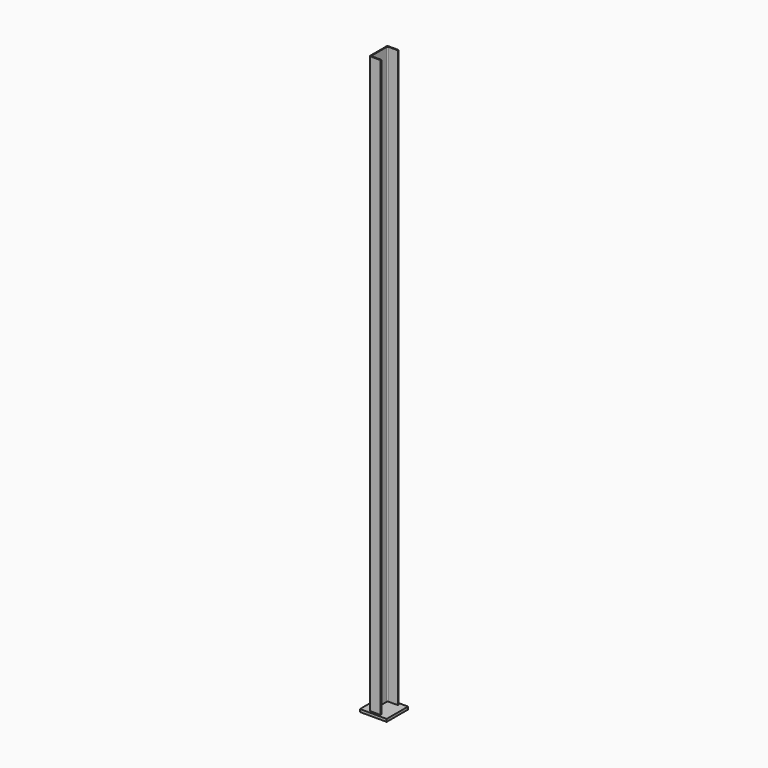
from build123d import *

# Parameters (mm, degrees)
F1_DEPTH = 2600
F2_DEPTH = 12
F3_DEPTH = 12


with BuildPart() as f1:
    # F0 (on Top) → F1 (new body)
    with BuildSketch(Plane.XY):
        with BuildLine():
            Line((-5168.702047, 0.422041), (-5168.702047, -44.577959))
            Line((-5168.702047, -44.577959), (-5164.702047, -44.577959))
            Line((-5164.702047, -44.577959), (-5164.702047, -3.577959))
            ThreePointArc((-5164.702047, -3.577959), (-5163.237581, -0.042425), (-5159.702047, 1.422041))
            Line((-5159.702047, 1.422041), (-5143.702047, 1.422041))
            Line((-5143.702047, 1.422041), (-5118.702047, 1.422041))
            Line((-5118.702047, 1.422041), (-5118.702047, 5.422041))
            Line((-5118.702047, 5.422041), (-5143.702047, 5.422041))
            Line((-5143.702047, 5.422041), (-5163.702047, 5.422041))
            ThreePointArc((-5163.702047, 5.422041), (-5167.237581, 3.957575), (-5168.702047, 0.422041))
        make_face()
        with BuildLine():
            Line((-5164.702047, -44.577959), (-5168.702047, -44.577959))
            Line((-5168.702047, -44.577959), (-5168.702047, -89.577959))
            ThreePointArc((-5168.702047, -89.577959), (-5168.676728, -90.080503), (-5168.601027, -90.577959))
            ThreePointArc((-5168.601027, -90.577959), (-5166.864325, -93.450942), (-5163.702047, -94.577959))
            Line((-5163.702047, -94.577959), (-5143.702047, -94.577959))
            Line((-5143.702047, -94.577959), (-5118.702047, -94.577959))
            Line((-5118.702047, -94.577959), (-5118.702047, -90.577959))
            Line((-5118.702047, -90.577959), (-5143.702047, -90.577959))
            Line((-5143.702047, -90.577959), (-5159.702047, -90.577959))
            ThreePointArc((-5159.702047, -90.577959), (-5163.237581, -89.113492), (-5164.702047, -85.577959))
            Line((-5164.702047, -85.577959), (-5164.702047, -44.577959))
        make_face()
    extrude(amount=F1_DEPTH)

    # F0 (on Top) → F2 (cut)
    with BuildSketch(Plane.XY):
        with BuildLine():
            Line((-5164.702047, -44.577959), (-5168.702047, -44.577959))
            Line((-5168.702047, -44.577959), (-5168.702047, -89.577959))
            ThreePointArc((-5168.702047, -89.577959), (-5168.676728, -90.080503), (-5168.601027, -90.577959))
            ThreePointArc((-5168.601027, -90.577959), (-5166.864325, -93.450942), (-5163.702047, -94.577959))
            Line((-5163.702047, -94.577959), (-5143.702047, -94.577959))
            Line((-5143.702047, -94.577959), (-5118.702047, -94.577959))
            Line((-5118.702047, -94.577959), (-5118.702047, -90.577959))
            Line((-5118.702047, -90.577959), (-5143.702047, -90.577959))
            Line((-5143.702047, -90.577959), (-5159.702047, -90.577959))
            ThreePointArc((-5159.702047, -90.577959), (-5163.237581, -89.113492), (-5164.702047, -85.577959))
            Line((-5164.702047, -85.577959), (-5164.702047, -44.577959))
        make_face()
        with BuildLine():
            Line((-5168.702047, 0.422041), (-5168.702047, -44.577959))
            Line((-5168.702047, -44.577959), (-5164.702047, -44.577959))
            Line((-5164.702047, -44.577959), (-5164.702047, -3.577959))
            ThreePointArc((-5164.702047, -3.577959), (-5163.237581, -0.042425), (-5159.702047, 1.422041))
            Line((-5159.702047, 1.422041), (-5143.702047, 1.422041))
            Line((-5143.702047, 1.422041), (-5118.702047, 1.422041))
            Line((-5118.702047, 1.422041), (-5118.702047, 5.422041))
            Line((-5118.702047, 5.422041), (-5143.702047, 5.422041))
            Line((-5143.702047, 5.422041), (-5163.702047, 5.422041))
            ThreePointArc((-5163.702047, 5.422041), (-5167.237581, 3.957575), (-5168.702047, 0.422041))
        make_face()
    extrude(amount=F2_DEPTH, mode=Mode.SUBTRACT)


with BuildPart() as f3:
    # F0 (on Top) → F3 (new body)
    with BuildSketch(Plane.XY):
        with BuildLine():
            Line((-5168.702047, -44.577959), (-5203.702047, -44.577959))
            Line((-5203.702047, -44.577959), (-5203.702047, -104.577959))
            Line((-5203.702047, -104.577959), (-5083.702047, -104.577959))
            Line((-5083.702047, -104.577959), (-5083.702047, -44.577959))
            Line((-5083.702047, -44.577959), (-5164.702047, -44.577959))
            Line((-5164.702047, -44.577959), (-5164.702047, -85.577959))
            ThreePointArc((-5164.702047, -85.577959), (-5163.237581, -89.113492), (-5159.702047, -90.577959))
            Line((-5159.702047, -90.577959), (-5143.702047, -90.577959))
            Line((-5143.702047, -90.577959), (-5118.702047, -90.577959))
            Line((-5118.702047, -90.577959), (-5118.702047, -94.577959))
            Line((-5118.702047, -94.577959), (-5143.702047, -94.577959))
            Line((-5143.702047, -94.577959), (-5163.702047, -94.577959))
            ThreePointArc((-5163.702047, -94.577959), (-5166.864325, -93.450942), (-5168.601027, -90.577959))
            ThreePointArc((-5168.601027, -90.577959), (-5168.676728, -90.080503), (-5168.702047, -89.577959))
            Line((-5168.702047, -89.577959), (-5168.702047, -44.577959))
        make_face()
        with BuildLine():
            Line((-5168.702047, 0.422041), (-5168.702047, -44.577959))
            Line((-5168.702047, -44.577959), (-5164.702047, -44.577959))
            Line((-5164.702047, -44.577959), (-5164.702047, -3.577959))
            ThreePointArc((-5164.702047, -3.577959), (-5163.237581, -0.042425), (-5159.702047, 1.422041))
            Line((-5159.702047, 1.422041), (-5143.702047, 1.422041))
            Line((-5143.702047, 1.422041), (-5118.702047, 1.422041))
            Line((-5118.702047, 1.422041), (-5118.702047, 5.422041))
            Line((-5118.702047, 5.422041), (-5143.702047, 5.422041))
            Line((-5143.702047, 5.422041), (-5163.702047, 5.422041))
            ThreePointArc((-5163.702047, 5.422041), (-5167.237581, 3.957575), (-5168.702047, 0.422041))
        make_face()
        with BuildLine():
            Line((-5083.702047, 15.422041), (-5203.702047, 15.422041))
            Line((-5203.702047, 15.422041), (-5203.702047, -44.577959))
            Line((-5203.702047, -44.577959), (-5168.702047, -44.577959))
            Line((-5168.702047, -44.577959), (-5168.702047, 0.422041))
            ThreePointArc((-5168.702047, 0.422041), (-5167.237581, 3.957575), (-5163.702047, 5.422041))
            Line((-5163.702047, 5.422041), (-5143.702047, 5.422041))
            Line((-5143.702047, 5.422041), (-5118.702047, 5.422041))
            Line((-5118.702047, 5.422041), (-5118.702047, 1.422041))
            Line((-5118.702047, 1.422041), (-5143.702047, 1.422041))
            Line((-5143.702047, 1.422041), (-5159.702047, 1.422041))
            ThreePointArc((-5159.702047, 1.422041), (-5163.237581, -0.042425), (-5164.702047, -3.577959))
            Line((-5164.702047, -3.577959), (-5164.702047, -44.577959))
            Line((-5164.702047, -44.577959), (-5083.702047, -44.577959))
            Line((-5083.702047, -44.577959), (-5083.702047, 15.422041))
        make_face()
    extrude(amount=F3_DEPTH)


solid = Compound([f1.part, f3.part])
